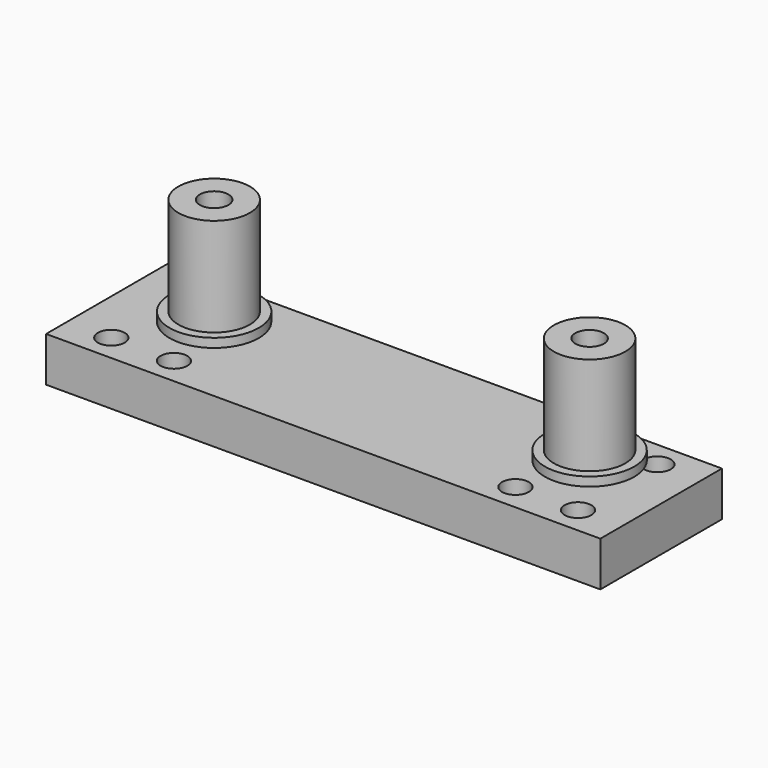
from build123d import *

# Parameters (mm, degrees)
F0_W      = 62
F0_H      = 17
F1_DEPTH  = 5
F2_R      = 5
F3_DEPTH  = 1
F4_R      = 4
F5_DEPTH  = 11
F6_R      = 2.85
F7_DEPTH  = 7.5
F8_R      = 1.6
F9_DEPTH  = 25
F10_R     = 1.5
F11_DEPTH = 5


with BuildPart() as f1:
    # F0 (on Top) → F1 (new body)
    with BuildSketch(Plane.XY):
        with Locations((31, 8.5)):
            Rectangle(F0_W, F0_H)
    extrude(amount=F1_DEPTH)

    # F2 (on face) → F3 (join)
    with BuildSketch(Plane.XY.offset(5)):
        with Locations((10, 11)):
            Circle(F2_R)
        with Locations((52, 11)):
            Circle(F2_R)
    extrude(amount=F3_DEPTH)

    # F4 (on face) → F5 (join)
    with BuildSketch(Plane.XY.offset(6)):
        with Locations((52, 11)):
            Circle(F4_R)
        with Locations((10, 11)):
            Circle(F4_R)
    extrude(amount=F5_DEPTH)

    # F6 (on face) → F7 (cut)
    with BuildSketch(Plane(origin=(0, 0, 0), x_dir=(1, 0, 0), z_dir=(0, 0, -1))):
        with Locations((52, -11)):
            Circle(F6_R)
        with Locations((10, -11)):
            Circle(F6_R)
    extrude(amount=-F7_DEPTH, mode=Mode.SUBTRACT)

    # F8 (on face) → F9 (cut)
    with BuildSketch(Plane.XY.offset(17)):
        with Locations((52, 11)):
            Circle(F8_R)
        with Locations((10, 11)):
            Circle(F8_R)
    extrude(amount=-F9_DEPTH, mode=Mode.SUBTRACT)

    # F10 (on face) → F11 (cut, through all)
    with BuildSketch(Plane(origin=(0, 0, 0), x_dir=(1, 0, 0), z_dir=(0, 0, -1))):
        with Locations((57.1, -14.1)):
            Circle(F10_R)
        with Locations((50.1, -3)):
            Circle(F10_R)
        with Locations((11.9, -3)):
            Circle(F10_R)
        with Locations((4.9, -14.1)):
            Circle(F10_R)
        with Locations((57.1, -3)):
            Circle(F10_R)
        with Locations((4.9, -3)):
            Circle(F10_R)
    extrude(amount=-F11_DEPTH, mode=Mode.SUBTRACT)


solid = f1.part
